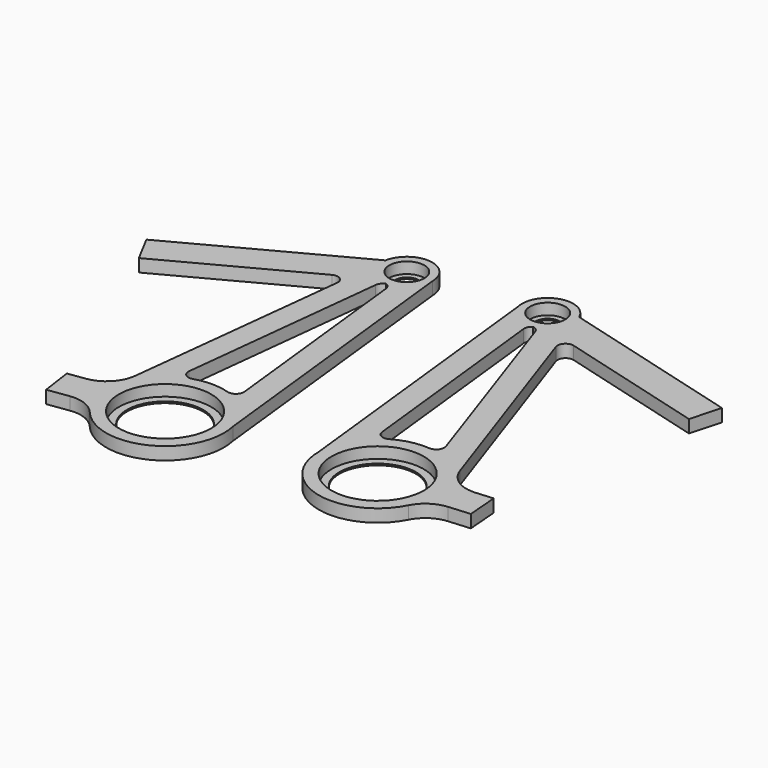
from build123d import *

# Parameters (mm, degrees)
F0_R     = 29.021942
F0_R_2   = 11.041634
F1_DEPTH = 8
F0_R_3   = 7.504584
F2_DEPTH = 1
F0_R_4   = 24.034592
F3_DEPTH = 1


with BuildPart() as f1:
    # F0 (on Top) → F1 (new body)
    with BuildSketch(Plane.XY):
        with BuildLine():
            ThreePointArc((-46.616685, -16.649824), (-36.62508, -17.799283), (-28.456296, -23.666513))
            ThreePointArc((-28.456296, -23.666513), (16.325204, -33.216748), (36.120837, 8.071539))
            Line((36.120837, 8.071539), (16.041634, 190))
            ThreePointArc((16.041634, 190), (1.47665, 205.973525), (-15.769779, 192.94076))
            Line((-15.769779, 192.94076), (-121.243798, 136.85923))
            Line((-121.243798, 136.85923), (-111.854367, 119.200278))
            Line((-111.854367, 119.200278), (-26.741749, 164.455459))
            ThreePointArc((-26.741749, 164.455459), (-21.584217, 164.176289), (-19.425487, 159.483958))
            Line((-19.425487, 159.483958), (-35.013384, 20.367721))
            ThreePointArc((-35.013384, 20.367721), (-40.540972, 8.661575), (-52.079958, 2.793024))
            Line((-52.079958, 2.793024), (-62.788351, 1.273948))
            Line((-62.788351, 1.273948), (-60.004889, -18.531413))
            Line((-60.004889, -18.531413), (-46.616685, -16.649824))
        make_face()
        Circle(F0_R, mode=Mode.SUBTRACT)
        with BuildLine():
            Line((-17.431985, 40.66928), (-3.204159, 169.581091))
            ThreePointArc((-3.204159, 169.581091), (-2.1846, 172.097773), (0, 173.710444))
            ThreePointArc((0, 173.710444), (2.1846, 172.097773), (3.204159, 169.581091))
            Line((3.204159, 169.581091), (17.431985, 40.66928))
            ThreePointArc((17.431985, 40.66928), (15.643985, 36.263825), (10.978984, 35.345814))
            ThreePointArc((10.978984, 35.345814), (0, 37.011682), (-10.978984, 35.345814))
            ThreePointArc((-10.978984, 35.345814), (-15.643985, 36.263825), (-17.431985, 40.66928))
        make_face(mode=Mode.SUBTRACT)
        with Locations((0, 190)):
            Circle(F0_R_2, mode=Mode.SUBTRACT)
    extrude(amount=F1_DEPTH)

    # F0 (on Top) → F2 (join)
    with BuildSketch(Plane.XY):
        with Locations((0, 190)):
            Circle(F0_R_2)
        with Locations((0, 190)):
            Circle(F0_R_3, mode=Mode.SUBTRACT)
    extrude(amount=F2_DEPTH)

    # F0 (on Top) → F3 (join)
    with BuildSketch(Plane.XY):
        Circle(F0_R)
        Circle(F0_R_4, mode=Mode.SUBTRACT)
    extrude(amount=F3_DEPTH)


with BuildPart() as f5_1:
    # F5: instance of F1
    add(f1.part.mirror(Plane(origin=(50.930347, 101.778333, 4), x_dir=(-0.109703, 0.993964, 0), z_dir=(0.993964, 0.109703, 0))))


solid = Compound([f1.part, f5_1.part])
